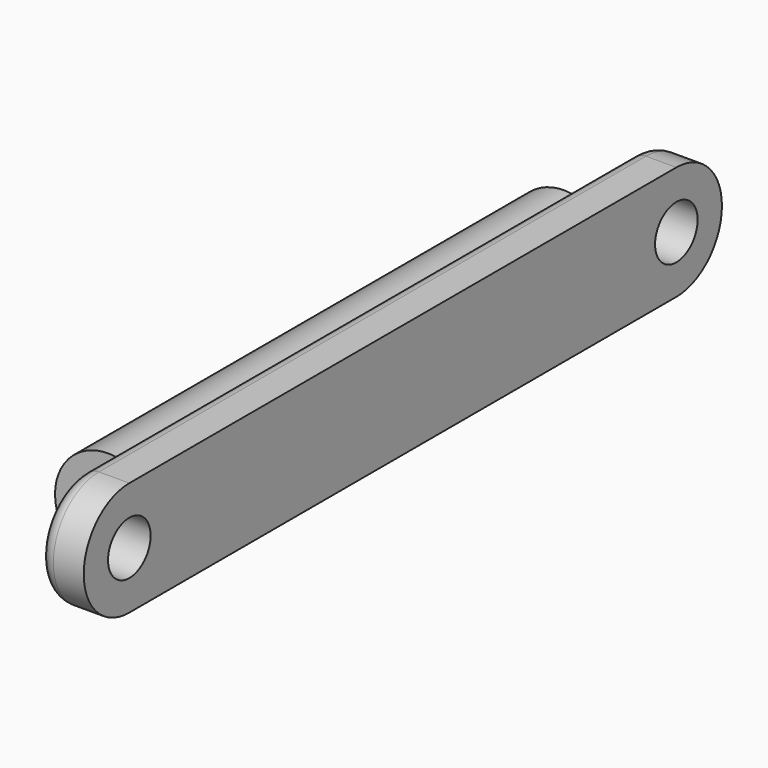
from build123d import *

# Parameters (mm, degrees)
SKETCH010_R                = 3.5
EXTRUDE009_DEPTH           = 6
FILLET001_R                = 2
EXTRUDE023_DEPTH           = 75
EXTRUDE023_PLACEMENT_ANGLE = 180


with BuildPart() as obj1:
    # Sketch010 → Extrude009 (new body)
    with BuildSketch(Plane(origin=(0, 0, 0), x_dir=(0, -1, 0), z_dir=(-1, 0, 0))):
        with BuildLine():
            ThreePointArc((0, 7.5), (-7.5, 0), (0, -7.5))
            Line((0, -7.5), (90, -7.5))
            ThreePointArc((90, -7.5), (97.5, 0), (90, 7.5))
            Line((0, 7.5), (90, 7.5))
        make_face()
        Circle(SKETCH010_R, mode=Mode.SUBTRACT)
        with Locations((90, 0)):
            Circle(SKETCH010_R, mode=Mode.SUBTRACT)
    extrude(amount=EXTRUDE009_DEPTH)


with BuildPart() as obj1_1:
    # Extrude009 placement: moved
    add(obj1.part.moved(Location((60, 5.35, 173.65))))

    # Fillet001
    fillet001_edges = [obj1_1.edges().sort_by_distance(p)[0] for p in [
        (54, -39.65, 181.15),
    ]]
    fillet(fillet001_edges, radius=FILLET001_R)


with BuildPart() as fusion028:
    # Sketch024 → Extrude023 (new body)
    with BuildSketch(Plane.XZ):
        with BuildLine():
            ThreePointArc((-4.21383, -5.589601), (7, 0), (-4.21383, 5.589601))
            ThreePointArc((-4.21383, -5.589601), (3.372719, 0), (-4.21383, 5.589601))
        make_face()
    extrude(amount=EXTRUDE023_DEPTH)


with BuildPart() as fusion028_1:
    # Extrude023 placement: moved
    add(fusion028.part.moved(Location((53.5, -5, 173.6))).rotate(Axis((53.5, -5, 173.6), (0, 1, 0)), EXTRUDE023_PLACEMENT_ANGLE))

    # Fusion028: union obj1
    add(obj1_1.part)


solid = fusion028_1.part
